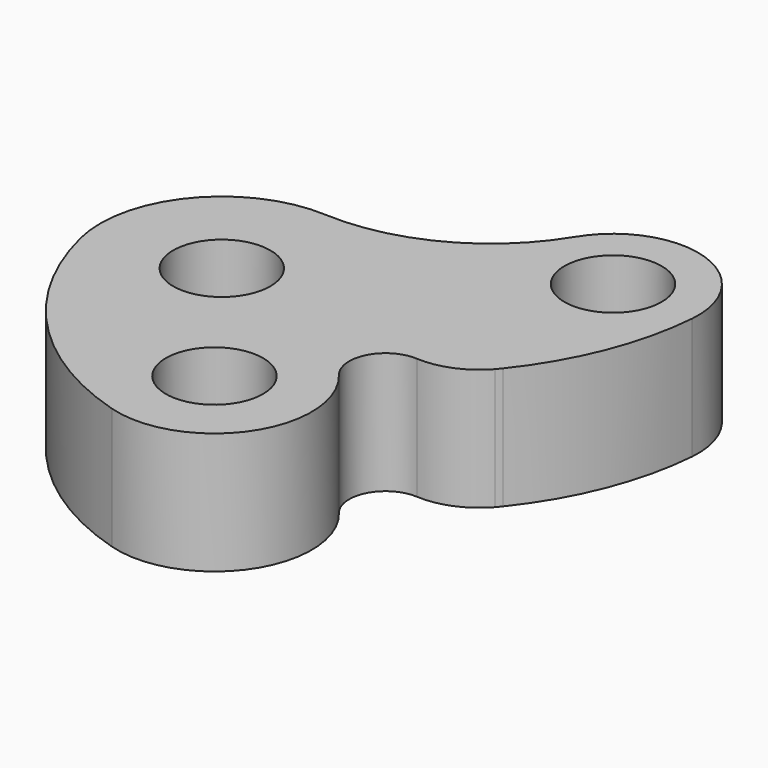
from build123d import *

# Parameters (mm, degrees)
F0_R     = 10
F1_DEPTH = 25


with BuildPart() as f1:
    # F0 (on Top) → F1 (new body)
    with BuildSketch(Plane.XY):
        with BuildLine():
            ThreePointArc((37.554206, 44.103474), (22.067235, 29.538399), (1.304766, 24.965929))
            ThreePointArc((1.304766, 24.965929), (-19.255297, 15.944702), (-24.284847, -5.93685))
            ThreePointArc((-24.284847, -5.93685), (-9.512511, -33.001447), (16.750607, -49.155795))
            ThreePointArc((16.750607, -49.155795), (39.169931, -41.050494), (37.904534, -17.244596))
            ThreePointArc((37.904534, -17.244596), (36.990811, -9.071889), (44.120823, -4.974213))
            ThreePointArc((44.120823, -4.974213), (50.719632, -3.866716), (56.18034, 0))
            ThreePointArc((56.18034, 0), (56.607545, 0.516991), (57.028946, 1.038724))
            ThreePointArc((57.028946, 1.038724), (65.909662, 16.341), (69.941319, 33.568087))
            ThreePointArc((69.941319, 33.568087), (57.913456, 51.641649), (37.554206, 44.103474))
        make_face()
        Circle(F0_R, mode=Mode.SUBTRACT)
        with Locations((22.5, -30)):
            Circle(F0_R, mode=Mode.SUBTRACT)
        with Locations((52.5, 35)):
            Circle(F0_R, mode=Mode.SUBTRACT)
    extrude(amount=F1_DEPTH)


solid = f1.part
